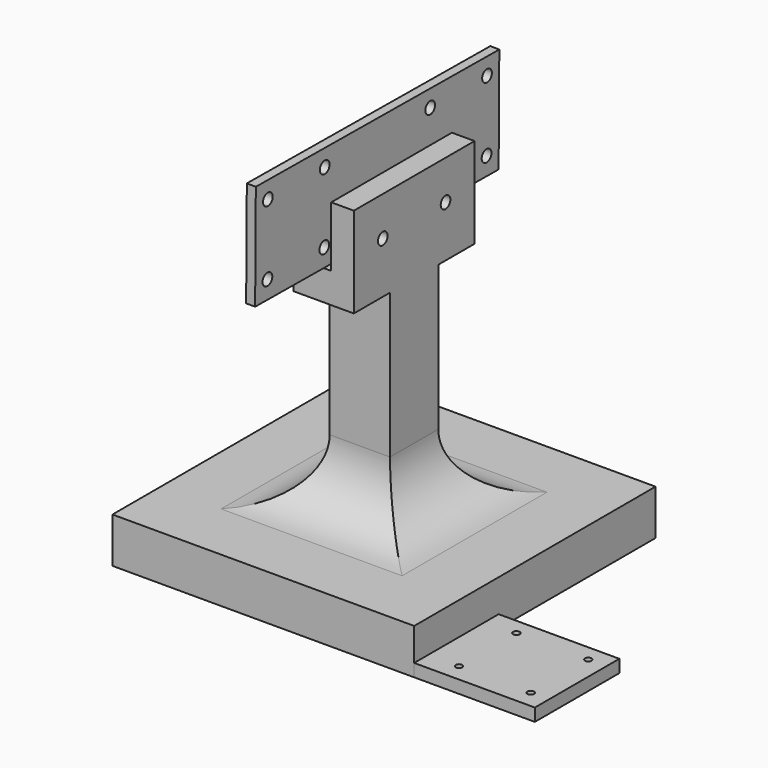
from build123d import *

# Parameters (mm, degrees)
CYLINDER005_R           = 2
CYLINDER005_DEPTH       = 10
CYLINDER006_R           = 2
CYLINDER006_DEPTH       = 10
CYLINDER007_R           = 2
CYLINDER007_DEPTH       = 10
CYLINDER004_R           = 2
CYLINDER004_DEPTH       = 10
CYLINDER002_R           = 2
CYLINDER002_DEPTH       = 10
CYLINDER001_R           = 2
CYLINDER001_DEPTH       = 10
CYLINDER003_R           = 2
CYLINDER003_DEPTH       = 10
CYLINDER_R              = 2
CYLINDER_DEPTH          = 10
BOX004_W                = 100
BOX004_H                = 35
BOX004_DEPTH            = 3
CUT008_ROLL_ANGLE       = 89.795603
CUT008_PITCH_ANGLE      = -0.20586
CUT008_PLACEMENT_ANGLE  = -90.408796
CYLINDER019_R           = 1.1
CYLINDER019_DEPTH       = 10
CYLINDER020_R           = 1.1
CYLINDER020_DEPTH       = 10
CYLINDER018_R           = 1.1
CYLINDER018_DEPTH       = 10
CYLINDER017_R           = 1.1
CYLINDER017_DEPTH       = 10
CYLINDER015_R           = 1.1
CYLINDER015_DEPTH       = 10
CYLINDER016_R           = 1.1
CYLINDER016_DEPTH       = 10
CYLINDER014_R           = 1.1
CYLINDER014_DEPTH       = 10
CYLINDER013_R           = 1.1
CYLINDER013_DEPTH       = 10
CYLINDER012_R           = 2
CYLINDER012_DEPTH       = 10
CYLINDER011_R           = 2
CYLINDER011_DEPTH       = 10
BOX006_W                = 140
BOX006_H                = 35
BOX006_DEPTH            = 4.2
BOX_W                   = 100
BOX_H                   = 100
BOX_DEPTH               = 15
CYLINDER010_R           = 2
CYLINDER010_DEPTH       = 25
CYLINDER010_PITCH_ANGLE = -90
CYLINDER009_R           = 2
CYLINDER009_DEPTH       = 25
CYLINDER009_PITCH_ANGLE = -90
BOX002_W                = 5
BOX002_H                = 50
BOX002_DEPTH            = 30
BOX001_W                = 20
BOX001_H                = 20
BOX001_DEPTH            = 100
BOX005_W                = 20
BOX005_H                = 50
BOX005_DEPTH            = 30
FILLET_R                = 20


with BuildPart() as cylinder005:
    # Cylinder005 → Cylinder005 (new body)
    with BuildSketch(Plane(origin=(90, 0, 0), x_dir=(1, 0, 0), z_dir=(0, 0, 1))):
        Circle(CYLINDER005_R)
    extrude(amount=CYLINDER005_DEPTH)


with BuildPart() as cylinder006:
    # Cylinder006 → Cylinder006 (new body)
    with BuildSketch(Plane(origin=(66.65, 23.35, 0), x_dir=(1, 0, 0), z_dir=(0, 0, 1))):
        Circle(CYLINDER006_R)
    extrude(amount=CYLINDER006_DEPTH)


with BuildPart() as cylinder007:
    # Cylinder007 → Cylinder007 (new body)
    with BuildSketch(Plane(origin=(66.65, 0, 0), x_dir=(1, 0, 0), z_dir=(0, 0, 1))):
        Circle(CYLINDER007_R)
    extrude(amount=CYLINDER007_DEPTH)


with BuildPart() as cylinder004:
    # Cylinder004 → Cylinder004 (new body)
    with BuildSketch(Plane(origin=(90, 23.35, 0), x_dir=(1, 0, 0), z_dir=(0, 0, 1))):
        Circle(CYLINDER004_R)
    extrude(amount=CYLINDER004_DEPTH)


with BuildPart() as cylinder002:
    # Cylinder002 → Cylinder002 (new body)
    with BuildSketch(Plane(origin=(0, 23.35, 0), x_dir=(1, 0, 0), z_dir=(0, 0, 1))):
        Circle(CYLINDER002_R)
    extrude(amount=CYLINDER002_DEPTH)


with BuildPart() as cylinder001:
    # Cylinder001 → Cylinder001 (new body)
    with BuildSketch(Plane(origin=(23.35, 0, 0), x_dir=(1, 0, 0), z_dir=(0, 0, 1))):
        Circle(CYLINDER001_R)
    extrude(amount=CYLINDER001_DEPTH)


with BuildPart() as cylinder003:
    # Cylinder003 → Cylinder003 (new body)
    with BuildSketch(Plane(origin=(23.35, 23.35, 0), x_dir=(1, 0, 0), z_dir=(0, 0, 1))):
        Circle(CYLINDER003_R)
    extrude(amount=CYLINDER003_DEPTH)


with BuildPart() as cylinder:
    # Cylinder → Cylinder (new body)
    with BuildSketch(Plane.XY):
        Circle(CYLINDER_R)
    extrude(amount=CYLINDER_DEPTH)


with BuildPart() as obj1:
    # Box004 → Box004 (new body)
    with BuildSketch(Plane(origin=(-5, -6, 0), x_dir=(1, 0, 0), z_dir=(0, 0, 1))):
        with Locations((50, 17.5)):
            Rectangle(BOX004_W, BOX004_H)
    extrude(amount=BOX004_DEPTH)

    # Cut001: cut Cylinder
    add(cylinder.part, mode=Mode.SUBTRACT)

    # Cut002: cut Cylinder003
    add(cylinder003.part, mode=Mode.SUBTRACT)

    # Cut003: cut Cylinder001
    add(cylinder001.part, mode=Mode.SUBTRACT)

    # Cut004: cut Cylinder002
    add(cylinder002.part, mode=Mode.SUBTRACT)

    # Cut005: cut Cylinder004
    add(cylinder004.part, mode=Mode.SUBTRACT)

    # Cut006: cut Cylinder007
    add(cylinder007.part, mode=Mode.SUBTRACT)

    # Cut007: cut Cylinder006
    add(cylinder006.part, mode=Mode.SUBTRACT)

    # Cut008: cut Cylinder005
    add(cylinder005.part, mode=Mode.SUBTRACT)


with BuildPart() as obj1_1:
    # Cut008 roll: moved
    add(obj1.part.rotate(Axis((0, 0, 0), (1, 0, 0)), CUT008_ROLL_ANGLE))


with BuildPart() as obj1_2:
    # Cut008 pitch: moved
    add(obj1_1.part.rotate(Axis((0, 0, 0), (0, 1, 0)), CUT008_PITCH_ANGLE))


with BuildPart() as obj1_3:
    # Cut008 placement: moved
    add(obj1_2.part.moved(Location((52, 90, 100))).rotate(Axis((52, 90, 100), (0, 0, 1)), CUT008_PLACEMENT_ANGLE))


with BuildPart() as obj2:
    # Cylinder019 → Cylinder019 (new body)
    with BuildSketch(Plane.XY):
        Circle(CYLINDER019_R)
    extrude(amount=CYLINDER019_DEPTH)


with BuildPart() as obj3:
    # Cylinder020 → Cylinder020 (new body)
    with BuildSketch(Plane(origin=(23.8, 0, 0), x_dir=(1, 0, 0), z_dir=(0, 0, 1))):
        Circle(CYLINDER020_R)
    extrude(amount=CYLINDER020_DEPTH)


with BuildPart() as obj4:
    # Cylinder018 → Cylinder018 (new body)
    with BuildSketch(Plane(origin=(23.8, 23.8, 0), x_dir=(1, 0, 0), z_dir=(0, 0, 1))):
        Circle(CYLINDER018_R)
    extrude(amount=CYLINDER018_DEPTH)


with BuildPart() as obj5:
    # Cylinder017 → Cylinder017 (new body)
    with BuildSketch(Plane(origin=(0, 23.8, 0), x_dir=(1, 0, 0), z_dir=(0, 0, 1))):
        Circle(CYLINDER017_R)
    extrude(amount=CYLINDER017_DEPTH)

    # Fusion006: union obj4
    add(obj4.part)

    # Fusion007: union obj3
    add(obj3.part)

    # Fusion008: union obj2
    add(obj2.part)


with BuildPart() as obj5_1:
    # Fusion008 placement: moved
    add(obj5.part.moved(Location((110.2, 5.825, 0))))


with BuildPart() as obj6:
    # Cylinder015 → Cylinder015 (new body)
    with BuildSketch(Plane.XY):
        Circle(CYLINDER015_R)
    extrude(amount=CYLINDER015_DEPTH)


with BuildPart() as obj7:
    # Cylinder016 → Cylinder016 (new body)
    with BuildSketch(Plane(origin=(23.8, 0, 0), x_dir=(1, 0, 0), z_dir=(0, 0, 1))):
        Circle(CYLINDER016_R)
    extrude(amount=CYLINDER016_DEPTH)


with BuildPart() as obj8:
    # Cylinder014 → Cylinder014 (new body)
    with BuildSketch(Plane(origin=(23.8, 23.8, 0), x_dir=(1, 0, 0), z_dir=(0, 0, 1))):
        Circle(CYLINDER014_R)
    extrude(amount=CYLINDER014_DEPTH)


with BuildPart() as obj9:
    # Cylinder013 → Cylinder013 (new body)
    with BuildSketch(Plane(origin=(0, 23.8, 0), x_dir=(1, 0, 0), z_dir=(0, 0, 1))):
        Circle(CYLINDER013_R)
    extrude(amount=CYLINDER013_DEPTH)

    # Fusion003: union obj8
    add(obj8.part)

    # Fusion004: union obj7
    add(obj7.part)

    # Fusion005: union obj6
    add(obj6.part)


with BuildPart() as obj9_1:
    # Fusion005 placement: moved
    add(obj9.part.moved(Location((6, 5.825, 0))))


with BuildPart() as obj10:
    # Cylinder012 → Cylinder012 (new body)
    with BuildSketch(Plane(origin=(26, 0, 0), x_dir=(1, 0, 0), z_dir=(0, 0, 1))):
        Circle(CYLINDER012_R)
    extrude(amount=CYLINDER012_DEPTH)


with BuildPart() as obj11:
    # Cylinder011 → Cylinder011 (new body)
    with BuildSketch(Plane.XY):
        Circle(CYLINDER011_R)
    extrude(amount=CYLINDER011_DEPTH)

    # Fusion002: union obj10
    add(obj10.part)


with BuildPart() as obj11_1:
    # Fusion002 placement: moved
    add(obj11.part.moved(Location((57, 7, 0))))


with BuildPart() as obj12:
    # Box006 → Box006 (new body)
    with BuildSketch(Plane.XY):
        with Locations((70, 17.5)):
            Rectangle(BOX006_W, BOX006_H)
    extrude(amount=BOX006_DEPTH)

    # Cut011: cut obj11
    add(obj11_1.part, mode=Mode.SUBTRACT)

    # Cut012: cut obj9
    add(obj9_1.part, mode=Mode.SUBTRACT)

    # Cut013: cut obj5
    add(obj5_1.part, mode=Mode.SUBTRACT)


with BuildPart() as base:
    # Box → Box (new body)
    with BuildSketch(Plane.XY):
        with Locations((50, 50)):
            Rectangle(BOX_W, BOX_H)
    extrude(amount=BOX_DEPTH)


with BuildPart() as obj13:
    # Cylinder010 → Cylinder010 (new body)
    with BuildSketch(Plane.XY):
        Circle(CYLINDER010_R)
    extrude(amount=CYLINDER010_DEPTH)


with BuildPart() as obj13_1:
    # Cylinder010 pitch: moved
    add(obj13.part.rotate(Axis((0, 0, 0), (0, 1, 0)), CYLINDER010_PITCH_ANGLE))


with BuildPart() as obj13_2:
    # Cylinder010 placement: moved
    add(obj13_1.part.moved(Location((62.5, 63, 100))))


with BuildPart() as obj14:
    # Cylinder009 → Cylinder009 (new body)
    with BuildSketch(Plane.XY):
        Circle(CYLINDER009_R)
    extrude(amount=CYLINDER009_DEPTH)


with BuildPart() as obj14_1:
    # Cylinder009 pitch: moved
    add(obj14.part.rotate(Axis((0, 0, 0), (0, 1, 0)), CYLINDER009_PITCH_ANGLE))


with BuildPart() as obj14_2:
    # Cylinder009 placement: moved
    add(obj14_1.part.moved(Location((62.5, 37, 100))))


with BuildPart() as obj15:
    # Box002 → Box002 (new body)
    with BuildSketch(Plane(origin=(47.5, 25, 93), x_dir=(1, 0, 0), z_dir=(0, 0, 1))):
        with Locations((2.5, 25)):
            Rectangle(BOX002_W, BOX002_H)
    extrude(amount=BOX002_DEPTH)


with BuildPart() as obj16:
    # Box001 → Box001 (new body)
    with BuildSketch(Plane(origin=(40, 40, 13), x_dir=(1, 0, 0), z_dir=(0, 0, 1))):
        with Locations((10, 10)):
            Rectangle(BOX001_W, BOX001_H)
    extrude(amount=BOX001_DEPTH)


with BuildPart() as fillet_body:
    # Box005 → Box005 (new body)
    with BuildSketch(Plane(origin=(40, 25, 83), x_dir=(1, 0, 0), z_dir=(0, 0, 1))):
        with Locations((10, 25)):
            Rectangle(BOX005_W, BOX005_H)
    extrude(amount=BOX005_DEPTH)

    # Fusion: union obj16
    add(obj16.part)

    # Cut: cut obj15
    add(obj15.part, mode=Mode.SUBTRACT)

    # Cut009: cut obj14
    add(obj14_2.part, mode=Mode.SUBTRACT)

    # Cut010: cut obj13
    add(obj13_2.part, mode=Mode.SUBTRACT)

    # Fusion001: union Base
    add(base.part)

    # Fillet
    fillet_edges = [fillet_body.edges().sort_by_distance(p)[0] for p in [
        (60, 50, 15),
        (50, 40, 15),
        (50, 60, 15),
        (40, 50, 15),
    ]]
    fillet(fillet_edges, radius=FILLET_R)


solid = Compound([obj1_3.part, obj12.part, fillet_body.part])
